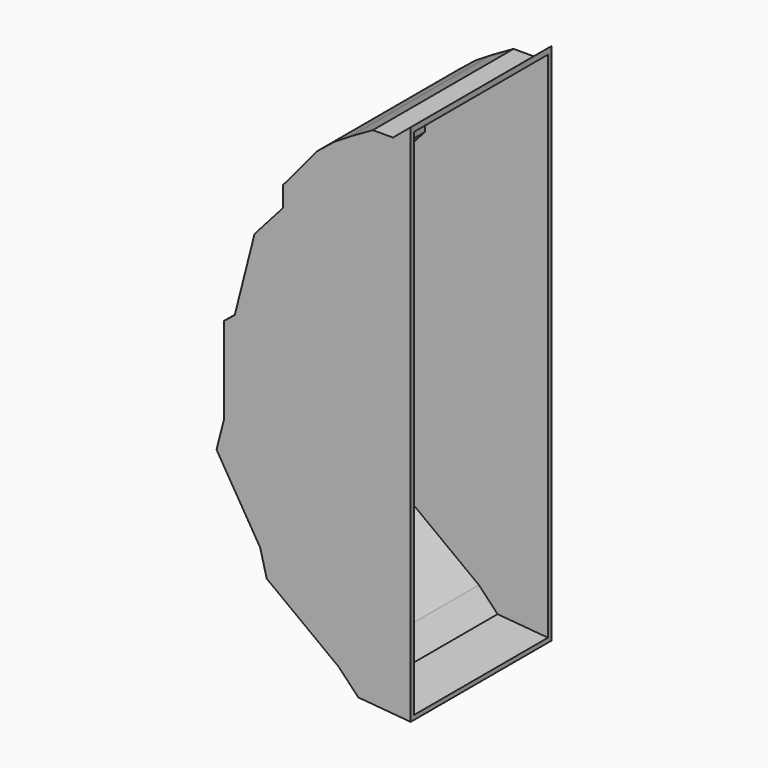
from build123d import *

# Parameters (mm, degrees)
F1_DEPTH = 50.8
F2_T     = -1.27


with BuildPart() as f1:
    # F0 (on Front) → F1 (new body)
    with BuildSketch(Plane.XZ):
        Polygon((0, -75.4225850105), (0, 75.6924301386), (-5.1344027109, 71.4291541441), (-10.9274061397, 71.4291541441), (-17.2954377725, 67.7951020827), (-21.9075246483, 64.9422839427), (-26.9096385925, 60.9252203059), (-36.8005977082, 49.1287882788), (-36.8005977082, 43.2947015044), (-45.0853107386, 33.928464016), (-50.7989365131, 11.432697977), (-53.8390357266, 9.0207242896), (-53.8390357266, -15.8323287207), (-56.0461635366, -24.4458786111), (-43.4528528079, -45.24207304), (-41.5639145597, -52.527973454), (-20.785599418, -68.1791696954), (-15.1187874674, -74.1158370185), align=None)
    extrude(amount=F1_DEPTH)

    # F2
    f2_openings = [f1.faces().sort_by_distance(p)[0] for p in [
        (0, -25.4, 0.134923),
    ]]
    offset(amount=F2_T, openings=f2_openings, kind=Kind.INTERSECTION)


solid = f1.part
